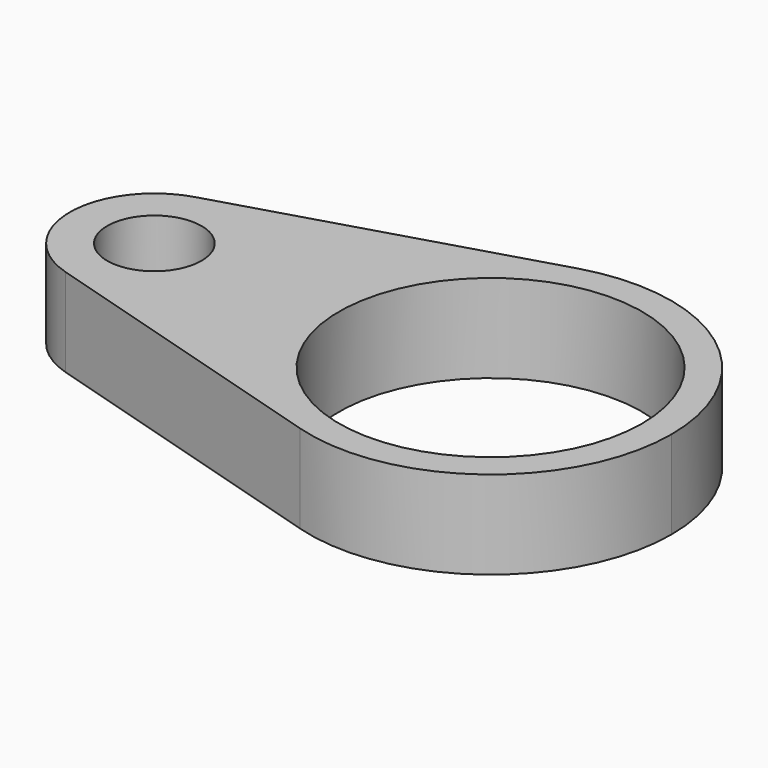
from build123d import *

# Parameters (mm, degrees)
F0_R     = 13.591199
F0_R_2   = 43.655366
F1_DEPTH = 25.4


with BuildPart() as f1:
    # F0 (on Top) → F1 (new body)
    with BuildSketch(Plane.XY):
        with BuildLine():
            Line((-14.924116, 49.913616), (-103.822906, 23.332976))
            ThreePointArc((-103.822906, 23.332976), (-121.200012, 0), (-103.822906, -23.332976))
            Line((-103.822906, -23.332976), (-14.924116, -49.913616))
            ThreePointArc((-14.924116, -49.913616), (-52.097008, 0), (-14.924116, 49.913616))
        make_face()
        with Locations((-96.846372, 0)):
            Circle(F0_R, mode=Mode.SUBTRACT)
        with BuildLine():
            ThreePointArc((52.097008, 0), (31.117491, 41.782772), (-14.924116, 49.913616))
            ThreePointArc((-14.924116, 49.913616), (-52.097008, 0), (-14.924116, -49.913616))
            ThreePointArc((-14.924116, -49.913616), (31.117491, -41.782772), (52.097008, 0))
        make_face()
        Circle(F0_R_2, mode=Mode.SUBTRACT)
    extrude(amount=F1_DEPTH)


solid = f1.part
